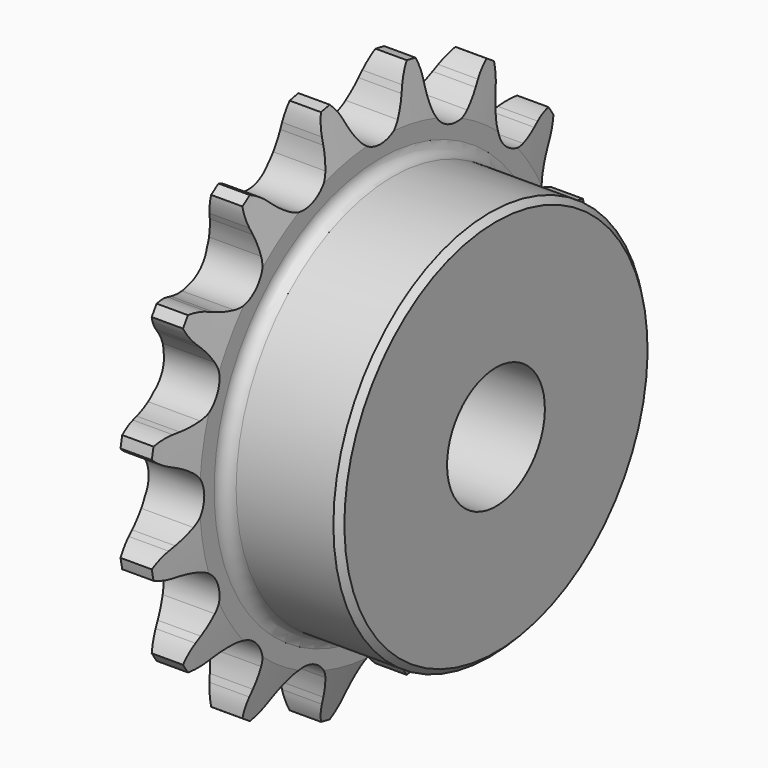
from build123d import *

# Parameters (mm, degrees)
F0_W     = 15.0114
F0_H     = 17.4625
F0_W_2   = 7.2136
F0_H_2   = 10.287
F2_R     = 1.5875
F3_SIZE  = 0.79375
F4_SIZE2 = 6.35
F4_SIZE  = 1.5748
F6_DEPTH = 22.226


with BuildPart() as f1:
    # F0 (on Front) → F1 (revolve)
    with BuildSketch(Plane.XZ):
        with Locations((14.7193, 16.66875)):
            Rectangle(F0_W, F0_H)
        with Locations((3.6068, 16.66875)):
            Rectangle(F0_W_2, F0_H)
        with Locations((3.6068, 30.5435)):
            Rectangle(F0_W_2, F0_H_2)
    revolve(axis=Axis((11.1125, 0, 0), (1, 0, 0)))

    # F2
    f2_edges = [f1.edges().sort_by_distance(p)[0] for p in [
        (7.2136, 0, -25.4),
    ]]
    fillet(f2_edges, radius=F2_R)

    # F3
    f3_edges = [f1.edges().sort_by_distance(p)[0] for p in [
        (22.225, 0, -25.4),
    ]]
    chamfer(f3_edges, length=F3_SIZE)

    # F4
    f4_edges = [f1.edges().sort_by_distance(p)[0] for p in [
        (0, 0, -35.687),
        (7.2136, 0, -35.687),
    ]]
    f4_side = f1.faces().sort_by_distance((3.6068, 0, -35.687))[0]
    chamfer(f4_edges, length=F4_SIZE, length2=F4_SIZE2, reference=f4_side)

    # F5 (on face) → F6 (intersect, through all)
    with BuildSketch(Plane(origin=(0, 0, 0), x_dir=(0, -1, 0), z_dir=(-1, 0, 0))):
        with BuildLine():
            Line((-4.4568878106, 32.3001493474), (-4.8164154778, 33.0982711732))
            ThreePointArc((-4.8164154778, 33.0982711732), (-5.7824590494, 34.6345413147), (-7.1308367855, 35.8491373836))
            ThreePointArc((-7.1308367855, 35.8491373836), (-7.9117695854, 34.2109951151), (-8.2163723379, 32.4219777052))
            Line((-8.2163723379, 32.4219777052), (-8.2431045912, 31.5470240041))
            ThreePointArc((-8.2431045912, 31.5470240041), (-8.3658592885, 30.2423390761), (-8.6522824488, 28.963576686))
            ThreePointArc((-8.6522824488, 28.963576686), (-10.9400391594, 26.4115909116), (-14.3622538898, 26.5984290744))
            ThreePointArc((-14.3622538898, 26.5984290744), (-15.4690072063, 27.300118873), (-16.4783594451, 28.135869754))
            Line((-16.4783594451, 28.135869754), (-17.115947698, 28.7356528917))
            ThreePointArc((-17.115947698, 28.7356528917), (-18.596360712, 29.7852925621), (-20.3069050971, 30.3914311902))
            ThreePointArc((-20.3069050971, 30.3914311902), (-20.4015030212, 28.5791350327), (-19.9982919468, 26.8097320375))
            Line((-19.9982919468, 26.8097320375), (-19.688159043, 25.9911502307))
            ThreePointArc((-19.688159043, 25.9911502307), (-19.3022882889, 24.7388023405), (-19.0775476037, 23.4477705432))
            ThreePointArc((-19.0775476037, 23.4477705432), (-20.2145565285, 20.2145565285), (-23.4477705432, 19.0775476037))
            ThreePointArc((-23.4477705432, 19.0775476037), (-24.7388023405, 19.3022882889), (-25.9911502307, 19.688159043))
            Line((-25.9911502307, 19.688159043), (-26.8097320375, 19.9982919468))
            ThreePointArc((-26.8097320375, 19.9982919468), (-28.5791350327, 20.4015030212), (-30.3914311902, 20.3069050971))
            ThreePointArc((-30.3914311902, 20.3069050971), (-29.7852925621, 18.596360712), (-28.7356528917, 17.115947698))
            Line((-28.7356528917, 17.115947698), (-28.135869754, 16.4783594451))
            ThreePointArc((-28.135869754, 16.4783594451), (-27.300118873, 15.4690072063), (-26.5984290744, 14.3622538898))
            ThreePointArc((-26.5984290744, 14.3622538898), (-26.4115909116, 10.9400391594), (-28.963576686, 8.6522824488))
            ThreePointArc((-28.963576686, 8.6522824488), (-30.2423390761, 8.3658592885), (-31.5470240041, 8.2431045912))
            Line((-31.5470240041, 8.2431045912), (-32.4219777052, 8.2163723379))
            ThreePointArc((-32.4219777052, 8.2163723379), (-34.2109951151, 7.9117695854), (-35.8491373836, 7.1308367855))
            ThreePointArc((-35.8491373836, 7.1308367855), (-34.6345413147, 5.7824590494), (-33.0982711732, 4.8164154778))
            Line((-33.0982711732, 4.8164154778), (-32.3001493474, 4.4568878106))
            ThreePointArc((-32.3001493474, 4.4568878106), (-31.1417538349, 3.8441959519), (-30.0699408338, 3.0902142758))
            ThreePointArc((-30.0699408338, 3.0902142758), (-28.5877, 0), (-30.0699408338, -3.0902142758))
            ThreePointArc((-30.0699408338, -3.0902142758), (-31.1417538349, -3.8441959519), (-32.3001493474, -4.4568878106))
            Line((-32.3001493474, -4.4568878106), (-33.0982711732, -4.8164154778))
            ThreePointArc((-33.0982711732, -4.8164154778), (-34.6345413147, -5.7824590494), (-35.8491373836, -7.1308367855))
            ThreePointArc((-35.8491373836, -7.1308367855), (-34.2109951151, -7.9117695854), (-32.4219777052, -8.2163723379))
            Line((-32.4219777052, -8.2163723379), (-31.5470240041, -8.2431045912))
            ThreePointArc((-31.5470240041, -8.2431045912), (-30.2423390761, -8.3658592885), (-28.963576686, -8.6522824488))
            ThreePointArc((-28.963576686, -8.6522824488), (-26.4115909116, -10.9400391594), (-26.5984290744, -14.3622538898))
            ThreePointArc((-26.5984290744, -14.3622538898), (-27.300118873, -15.4690072063), (-28.135869754, -16.4783594451))
            Line((-28.135869754, -16.4783594451), (-28.7356528917, -17.115947698))
            ThreePointArc((-28.7356528917, -17.115947698), (-29.7852925621, -18.596360712), (-30.3914311902, -20.3069050971))
            ThreePointArc((-30.3914311902, -20.3069050971), (-28.5791350327, -20.4015030212), (-26.8097320375, -19.9982919468))
            Line((-26.8097320375, -19.9982919468), (-25.9911502307, -19.688159043))
            ThreePointArc((-25.9911502307, -19.688159043), (-24.7388023405, -19.3022882889), (-23.4477705432, -19.0775476037))
            ThreePointArc((-23.4477705432, -19.0775476037), (-20.2145565285, -20.2145565285), (-19.0775476037, -23.4477705432))
            ThreePointArc((-19.0775476037, -23.4477705432), (-19.3022882889, -24.7388023405), (-19.688159043, -25.9911502307))
            Line((-19.688159043, -25.9911502307), (-19.9982919468, -26.8097320375))
            ThreePointArc((-19.9982919468, -26.8097320375), (-20.4015030212, -28.5791350327), (-20.3069050971, -30.3914311902))
            ThreePointArc((-20.3069050971, -30.3914311902), (-18.596360712, -29.7852925621), (-17.115947698, -28.7356528917))
            Line((-17.115947698, -28.7356528917), (-16.4783594451, -28.135869754))
            ThreePointArc((-16.4783594451, -28.135869754), (-15.4690072063, -27.300118873), (-14.3622538898, -26.5984290744))
            ThreePointArc((-14.3622538898, -26.5984290744), (-10.9400391594, -26.4115909116), (-8.6522824488, -28.963576686))
            ThreePointArc((-8.6522824488, -28.963576686), (-8.3658592885, -30.2423390761), (-8.2431045912, -31.5470240041))
            Line((-8.2431045912, -31.5470240041), (-8.2163723379, -32.4219777052))
            ThreePointArc((-8.2163723379, -32.4219777052), (-7.9117695854, -34.2109951151), (-7.1308367855, -35.8491373836))
            ThreePointArc((-7.1308367855, -35.8491373836), (-5.7824590494, -34.6345413147), (-4.8164154778, -33.0982711732))
            Line((-4.8164154778, -33.0982711732), (-4.4568878106, -32.3001493474))
            ThreePointArc((-4.4568878106, -32.3001493474), (-3.8441959519, -31.1417538349), (-3.0902142758, -30.0699408338))
            ThreePointArc((-3.0902142758, -30.0699408338), (0, -28.5877), (3.0902142758, -30.0699408338))
            ThreePointArc((3.0902142758, -30.0699408338), (3.8441959519, -31.1417538349), (4.4568878106, -32.3001493474))
            Line((4.4568878106, -32.3001493474), (4.8164154778, -33.0982711732))
            ThreePointArc((4.8164154778, -33.0982711732), (5.7824590494, -34.6345413147), (7.1308367855, -35.8491373836))
            ThreePointArc((7.1308367855, -35.8491373836), (7.9117695854, -34.2109951151), (8.2163723379, -32.4219777052))
            Line((8.2163723379, -32.4219777052), (8.2431045912, -31.5470240041))
            ThreePointArc((8.2431045912, -31.5470240041), (8.3658592885, -30.2423390761), (8.6522824488, -28.963576686))
            ThreePointArc((8.6522824488, -28.963576686), (10.9400391594, -26.4115909116), (14.3622538898, -26.5984290744))
            ThreePointArc((14.3622538898, -26.5984290744), (15.4690072063, -27.300118873), (16.4783594451, -28.135869754))
            Line((16.4783594451, -28.135869754), (17.115947698, -28.7356528917))
            ThreePointArc((17.115947698, -28.7356528917), (18.596360712, -29.7852925621), (20.3069050971, -30.3914311902))
            ThreePointArc((20.3069050971, -30.3914311902), (20.4015030212, -28.5791350327), (19.9982919468, -26.8097320375))
            Line((19.9982919468, -26.8097320375), (19.688159043, -25.9911502307))
            ThreePointArc((19.688159043, -25.9911502307), (19.3022882889, -24.7388023405), (19.0775476037, -23.4477705432))
            ThreePointArc((19.0775476037, -23.4477705432), (20.2145565285, -20.2145565285), (23.4477705432, -19.0775476037))
            ThreePointArc((23.4477705432, -19.0775476037), (24.7388023405, -19.3022882889), (25.9911502307, -19.688159043))
            Line((25.9911502307, -19.688159043), (26.8097320375, -19.9982919468))
            ThreePointArc((26.8097320375, -19.9982919468), (28.5791350327, -20.4015030212), (30.3914311902, -20.3069050971))
            ThreePointArc((30.3914311902, -20.3069050971), (29.7852925621, -18.596360712), (28.7356528917, -17.115947698))
            Line((28.7356528917, -17.115947698), (28.135869754, -16.4783594451))
            ThreePointArc((28.135869754, -16.4783594451), (27.300118873, -15.4690072063), (26.5984290744, -14.3622538898))
            ThreePointArc((26.5984290744, -14.3622538898), (26.4115909116, -10.9400391594), (28.963576686, -8.6522824488))
            ThreePointArc((28.963576686, -8.6522824488), (30.2423390761, -8.3658592885), (31.5470240041, -8.2431045912))
            Line((31.5470240041, -8.2431045912), (32.4219777052, -8.2163723379))
            ThreePointArc((32.4219777052, -8.2163723379), (34.2109951151, -7.9117695854), (35.8491373836, -7.1308367855))
            ThreePointArc((35.8491373836, -7.1308367855), (34.6345413147, -5.7824590494), (33.0982711732, -4.8164154778))
            Line((33.0982711732, -4.8164154778), (32.3001493474, -4.4568878106))
            ThreePointArc((32.3001493474, -4.4568878106), (31.1417538349, -3.8441959519), (30.0699408338, -3.0902142758))
            ThreePointArc((30.0699408338, -3.0902142758), (28.5877, 0), (30.0699408338, 3.0902142758))
            ThreePointArc((30.0699408338, 3.0902142758), (31.1417538349, 3.8441959519), (32.3001493474, 4.4568878106))
            Line((32.3001493474, 4.4568878106), (33.0982711732, 4.8164154778))
            ThreePointArc((33.0982711732, 4.8164154778), (34.6345413147, 5.7824590494), (35.8491373836, 7.1308367855))
            ThreePointArc((35.8491373836, 7.1308367855), (34.2109951151, 7.9117695854), (32.4219777052, 8.2163723379))
            Line((32.4219777052, 8.2163723379), (31.5470240041, 8.2431045912))
            ThreePointArc((31.5470240041, 8.2431045912), (30.2423390761, 8.3658592885), (28.963576686, 8.6522824488))
            ThreePointArc((28.963576686, 8.6522824488), (26.4115909116, 10.9400391594), (26.5984290744, 14.3622538898))
            ThreePointArc((26.5984290744, 14.3622538898), (27.300118873, 15.4690072063), (28.135869754, 16.4783594451))
            Line((28.135869754, 16.4783594451), (28.7356528917, 17.115947698))
            ThreePointArc((28.7356528917, 17.115947698), (29.7852925621, 18.596360712), (30.3914311902, 20.3069050971))
            ThreePointArc((30.3914311902, 20.3069050971), (28.5791350327, 20.4015030212), (26.8097320375, 19.9982919468))
            Line((26.8097320375, 19.9982919468), (25.9911502307, 19.688159043))
            ThreePointArc((25.9911502307, 19.688159043), (24.7388023405, 19.3022882889), (23.4477705432, 19.0775476037))
            ThreePointArc((23.4477705432, 19.0775476037), (20.2145565285, 20.2145565285), (19.0775476037, 23.4477705432))
            ThreePointArc((19.0775476037, 23.4477705432), (19.3022882889, 24.7388023405), (19.688159043, 25.9911502307))
            Line((19.688159043, 25.9911502307), (19.9982919468, 26.8097320375))
            ThreePointArc((19.9982919468, 26.8097320375), (20.4015030212, 28.5791350327), (20.3069050971, 30.3914311902))
            ThreePointArc((20.3069050971, 30.3914311902), (18.596360712, 29.7852925621), (17.115947698, 28.7356528917))
            Line((17.115947698, 28.7356528917), (16.4783594451, 28.135869754))
            ThreePointArc((16.4783594451, 28.135869754), (15.4690072063, 27.300118873), (14.3622538898, 26.5984290744))
            ThreePointArc((14.3622538898, 26.5984290744), (10.9400391594, 26.4115909116), (8.6522824488, 28.963576686))
            ThreePointArc((8.6522824488, 28.963576686), (8.3658592885, 30.2423390761), (8.2431045912, 31.5470240041))
            Line((8.2431045912, 31.5470240041), (8.2163723379, 32.4219777052))
            ThreePointArc((8.2163723379, 32.4219777052), (7.9117695854, 34.2109951151), (7.1308367855, 35.8491373836))
            ThreePointArc((7.1308367855, 35.8491373836), (5.7824590494, 34.6345413147), (4.8164154778, 33.0982711732))
            Line((4.8164154778, 33.0982711732), (4.4568878106, 32.3001493474))
            ThreePointArc((4.4568878106, 32.3001493474), (3.8441959519, 31.1417538349), (3.0902142758, 30.0699408338))
            ThreePointArc((3.0902142758, 30.0699408338), (0, 28.5877), (-3.0902142758, 30.0699408338))
            ThreePointArc((-3.0902142758, 30.0699408338), (-3.8441959519, 31.1417538349), (-4.4568878106, 32.3001493474))
        make_face()
    extrude(amount=-F6_DEPTH, mode=Mode.INTERSECT)


solid = f1.part
